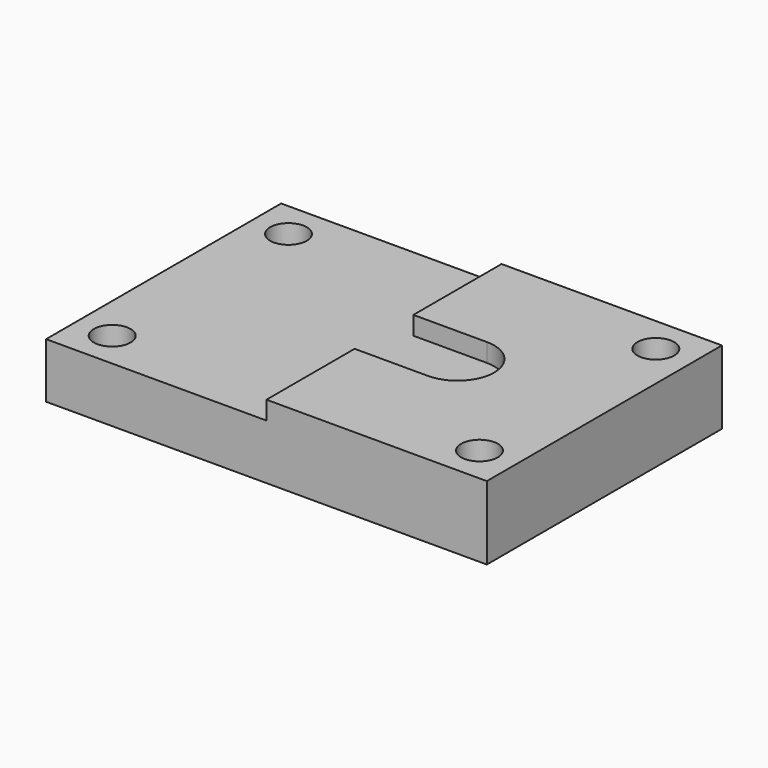
from build123d import *

# Parameters (mm, degrees)
F0_W     = 76.2
F0_H     = 50.8
F1_DEPTH = 12.7
F2_R     = 3.175
F3_DEPTH = 12.701
F5_DEPTH = 3.175
F6_W     = 38.1
F6_H     = 50.8
F7_DEPTH = 3.175


with BuildPart() as f1:
    # F0 (on Top) → F1 (new body)
    with BuildSketch(Plane.XY):
        Rectangle(F0_W, F0_H)
    extrude(amount=F1_DEPTH)

    # F2 (on face) → F3 (cut, through all)
    with BuildSketch(Plane.XY.offset(12.7)):
        with Locations((-31.75, 19.05)):
            Circle(F2_R)
        with Locations((31.75, 19.05)):
            Circle(F2_R)
        with Locations((31.75, -19.05)):
            Circle(F2_R)
        with Locations((-31.75, -19.05)):
            Circle(F2_R)
    extrude(amount=-F3_DEPTH, mode=Mode.SUBTRACT)

    # F4 (on face) → F5 (cut)
    with BuildSketch(Plane.XY.offset(12.7)):
        with BuildLine():
            Line((-12.7, -6.35), (12.7, -6.35))
            ThreePointArc((12.7, -6.35), (17.190128, -4.490128), (19.05, 0))
            ThreePointArc((19.05, 0), (17.190128, 4.490128), (12.7, 6.35))
            Line((12.7, 6.35), (-12.7, 6.35))
            ThreePointArc((-12.7, 6.35), (-17.190128, 4.490128), (-19.05, 0))
            ThreePointArc((-19.05, 0), (-17.190128, -4.490128), (-12.7, -6.35))
        make_face()
    extrude(amount=-F5_DEPTH, mode=Mode.SUBTRACT)

    # F6 (on face) → F7 (cut, through all)
    with BuildSketch(Plane.XY.offset(12.7)):
        with Locations((-19.05, 0)):
            Rectangle(F6_W, F6_H)
    extrude(amount=-F7_DEPTH, mode=Mode.SUBTRACT)


solid = f1.part
